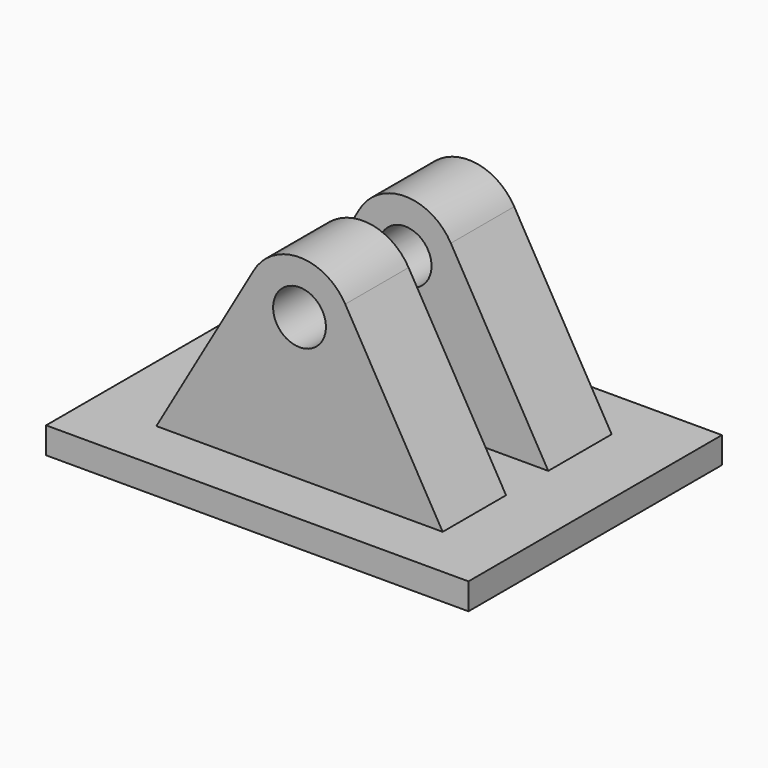
from build123d import *

# Parameters (mm, degrees)
F0_R     = 0.25
F1_DEPTH = 2
F2_W     = 0.5
F2_H     = 1.5980762114
F3_DEPTH = 12.5
F4_W     = 4
F4_H     = 3
F4_W_2   = 2.7113248654
F4_H_2   = 0.75
F5_DEPTH = 0.25


with BuildPart() as f1:
    # F0 (on Front) → F1 (new body)
    with BuildSketch(Plane.XZ):
        with BuildLine():
            ThreePointArc((0.4330127019, 0.25), (0, 0.5), (-0.4330127019, 0.25))
            Line((-0.4330127019, 0.25), (-1.3556624327, -1.3480762114))
            Line((-1.3556624327, -1.3480762114), (1.3556624327, -1.3480762114))
            Line((1.3556624327, -1.3480762114), (0.4330127019, 0.25))
        make_face()
        Circle(F0_R, mode=Mode.SUBTRACT)
    extrude(amount=F1_DEPTH)

    # F2 (on Right) → F3 (cut, symmetric)
    with BuildSketch(Plane.YZ):
        with Locations((-1, 1.0490381057)):
            Rectangle(F2_W, F2_H)
        with Locations((-1, -0.5490381057)):
            Rectangle(F2_W, F2_H)
    extrude(amount=F3_DEPTH, both=True, mode=Mode.SUBTRACT)


with BuildPart() as f5:
    # F4 (on face) → F5 (new body)
    with BuildSketch(Plane(origin=(0, 0, -1.3480762114), x_dir=(1, 0, 0), z_dir=(0, 0, -1))):
        with Locations((0, 1)):
            Rectangle(F4_W, F4_H)
        with Locations((0, 0.375)):
            Rectangle(F4_W_2, F4_H_2, mode=Mode.SUBTRACT)
        with Locations((0, 1.625)):
            Rectangle(F4_W_2, F4_H_2, mode=Mode.SUBTRACT)
    extrude(amount=F5_DEPTH)


solid = Compound([f1.part, f5.part])
